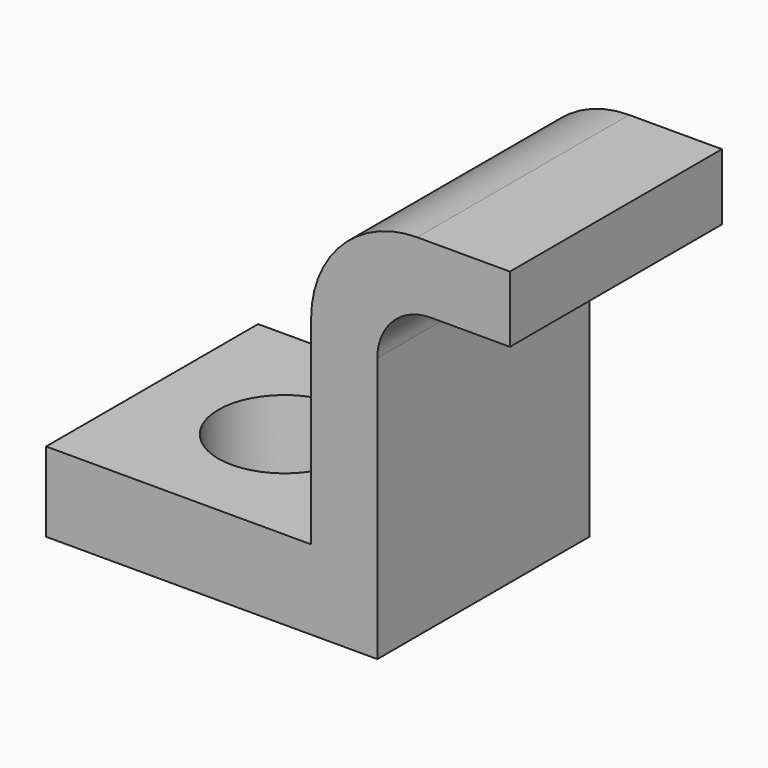
from build123d import *

# Parameters (mm, degrees)
F1_DEPTH = 10
F3_D     = 10
F3_DEPTH = 12


with BuildPart() as f1:
    # F0 (on Front) → F1 (new body, symmetric)
    with BuildSketch(Plane.XZ):
        with BuildLine():
            Line((10, 0), (-10, 0))
            Line((-10, 0), (-10, -6))
            Line((-10, -6), (15, -6))
            Line((15, -6), (15, 14))
            ThreePointArc((15, 14), (16.171573, 16.828427), (19, 18))
            Line((19, 18), (25, 18))
            Line((25, 18), (25, 23))
            Line((25, 23), (18, 23))
            ThreePointArc((18, 23), (12.343146, 20.656854), (10, 15))
            Line((10, 15), (10, 0))
        make_face()
    extrude(amount=F1_DEPTH, both=True)

    # F3
    with Locations(Plane.XY):
        with Locations((0, 0)):
            Hole(F3_D / 2, depth=F3_DEPTH)


solid = f1.part
